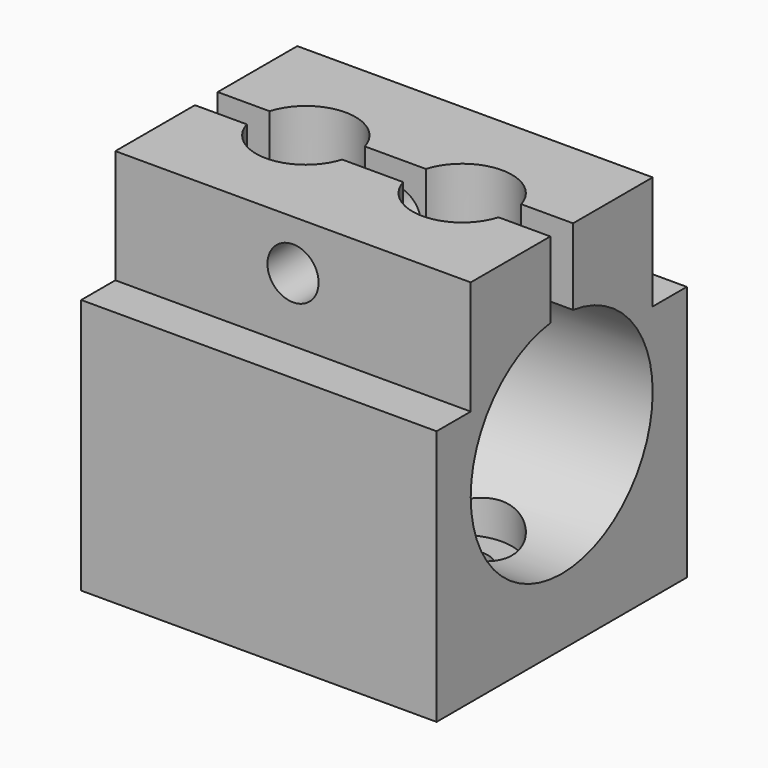
from build123d import *

# Parameters (mm, degrees)
BOX_W           = 25
BOX_H           = 22
BOX_DEPTH       = 26
SKETCH_R        = 8
POCKET_DEPTH    = 25.001
SKETCH001_R     = 3.5
POCKET001_DEPTH = 23
SKETCH002_R     = 1.8
POCKET002_DEPTH = 5
SKETCH003_R     = 1.8
POCKET003_DEPTH = 22.001
SKETCH004_W     = 2
SKETCH004_H     = 11.298807
SKETCH004_W_2   = 3
SKETCH004_H_2   = 8
POCKET004_DEPTH = 25.001


with BuildPart() as part:
    # Box → Box (new body)
    with BuildSketch(Plane.XY):
        with Locations((12.5, 11)):
            Rectangle(BOX_W, BOX_H)
    extrude(amount=BOX_DEPTH)

    # Sketch → Pocket (cut, through all)
    with BuildSketch(Plane.YZ.offset(25)):
        with Locations((11, 12.7)):
            Circle(SKETCH_R)
    extrude(amount=-POCKET_DEPTH, mode=Mode.SUBTRACT)

    # Sketch001 → Pocket001 (cut)
    with BuildSketch(Plane.XY.offset(26)):
        with Locations((7, 11)):
            Circle(SKETCH001_R)
        with Locations((18, 11)):
            Circle(SKETCH001_R)
    extrude(amount=-POCKET001_DEPTH, mode=Mode.SUBTRACT)

    # Sketch002 → Pocket002 (cut)
    with BuildSketch(Plane(origin=(0, 0, 0), x_dir=(1, 0, 0), z_dir=(0, 0, -1))):
        with Locations((7, -11)):
            Circle(SKETCH002_R)
        with Locations((18, -11)):
            Circle(SKETCH002_R)
    extrude(amount=-POCKET002_DEPTH, mode=Mode.SUBTRACT)

    # Sketch003 → Pocket003 (cut, through all)
    with BuildSketch(Plane(origin=(0, 22, 0), x_dir=(-1, 0, 0), z_dir=(0, 1, 0))):
        with Locations((-12.5, 22.5)):
            Circle(SKETCH003_R)
    extrude(amount=-POCKET003_DEPTH, mode=Mode.SUBTRACT)

    # Sketch004 → Pocket004 (cut, through all)
    with BuildSketch(Plane.YZ.offset(25)):
        with Locations((11, 23.747477)):
            Rectangle(SKETCH004_W, SKETCH004_H)
        with Locations((1.5, 22)):
            Rectangle(SKETCH004_W_2, SKETCH004_H_2)
        with Locations((20.5, 22)):
            Rectangle(SKETCH004_W_2, SKETCH004_H_2)
    extrude(amount=-POCKET004_DEPTH, mode=Mode.SUBTRACT)


solid = part.part
